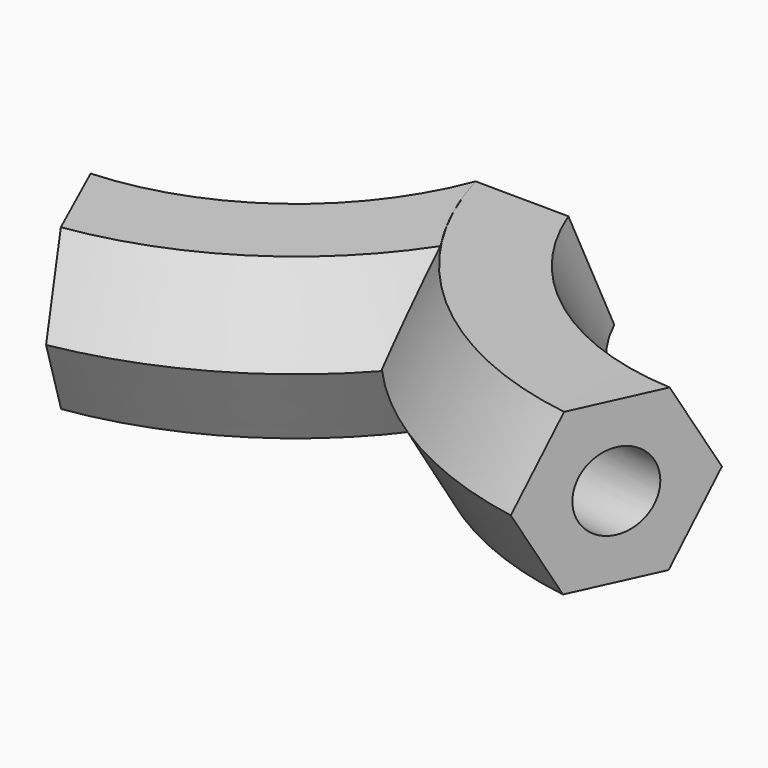
from build123d import *

# Parameters (mm, degrees)
F0_R = 12.7


with BuildPart() as f2:
    # F2: sweep along a path in F1
    with BuildLine(Plane.XY) as f2_path:
        ThreePointArc((-88.857807, -72.113179), (-33.770109, -49.190349), (0, 0))
    # F0 (on Front) → F2 (sweep)
    with BuildSketch(Plane.XZ):
        Polygon((-30.479473, 27.065896), (-15.394954, 0.580283), (15.084519, 0.401054), (30.479473, 26.707437), (15.394954, 53.19305), (-15.084519, 53.372279), align=None)
        with Locations((0, 26.886667)):
            Circle(F0_R, mode=Mode.SUBTRACT)
        with Locations((0, 26.886667)):
            Circle(F0_R)
    sweep(path=f2_path.line)

    # F3: sweep along a path in F1
    with BuildLine(Plane.XY) as f3_path:
        ThreePointArc((88.857807, -72.113179), (33.770109, -49.190349), (0, 0))
    # F0 (on Front) → F3 (sweep)
    with BuildSketch(Plane.XZ):
        Polygon((-30.479473, 27.065896), (-15.394954, 0.580283), (15.084519, 0.401054), (30.479473, 26.707437), (15.394954, 53.19305), (-15.084519, 53.372279), align=None)
        with Locations((0, 26.886667)):
            Circle(F0_R, mode=Mode.SUBTRACT)
    sweep(path=f3_path.line)

    # F4: sweep along a path in F1
    with BuildLine(Plane.XY) as f4_path:
        ThreePointArc((88.857807, -72.113179), (33.770109, -49.190349), (0, 0))
    # F0 (on Front) → F4 (sweep, cut)
    with BuildSketch(Plane.XZ):
        with Locations((0, 26.886667)):
            Circle(F0_R)
    sweep(path=f4_path.line, mode=Mode.SUBTRACT)


solid = f2.part
